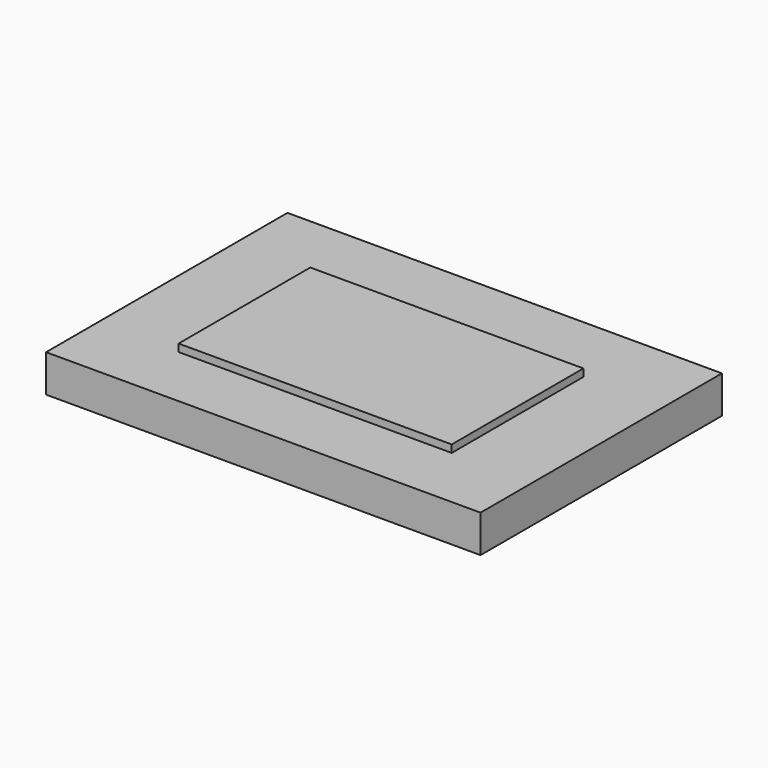
from build123d import *

# Parameters (mm, degrees)
F0_W     = 2949.5098590851
F0_H     = 2048.4457015991
F0_W_2   = 1600.2
F0_H_2   = 914.4
F1_DEPTH = 254
F3_DEPTH = 50.8
F4_W     = 1600.2
F4_H     = 50.8
F5_DEPTH = 914.4


with BuildPart() as f1:
    # F0 (on Top) → F1 (new body)
    with BuildSketch(Plane.XY):
        Rectangle(F0_W, F0_H)
        Rectangle(F0_W_2, F0_H_2, mode=Mode.SUBTRACT)
    extrude(amount=F1_DEPTH)

    # F2 (on face) → F3 (join)
    with BuildSketch(Plane.XY.offset(254)):
        Polygon((-927.1, -584.2), (-800.1, -457.2), (-800.1, 457.2), (-927.1, 533.4), (-927.1, 457.2), (-927.1, -457.2), align=None)
        Polygon((-927.1, 533.4), (-800.1, 457.2), (800.1, 457.2), (927.1, 533.4), (800.1, 533.4), (-800.1, 533.4), align=None)
        Polygon((800.1, 457.2), (800.1, -457.2), (927.1, -584.2), (927.1, -457.2), (927.1, 533.4), align=None)
        Polygon((800.1, -457.2), (-800.1, -457.2), (-927.1, -584.2), (927.1, -584.2), align=None)
    extrude(amount=F3_DEPTH)

    # F4 (on face) → F5 (join, through all)
    with BuildSketch(Plane(origin=(0, -457.2, 0), x_dir=(-1, 0, 0), z_dir=(0, 1, 0))):
        with Locations((0, 279.4)):
            Rectangle(F4_W, F4_H)
    extrude(amount=F5_DEPTH)


solid = f1.part
